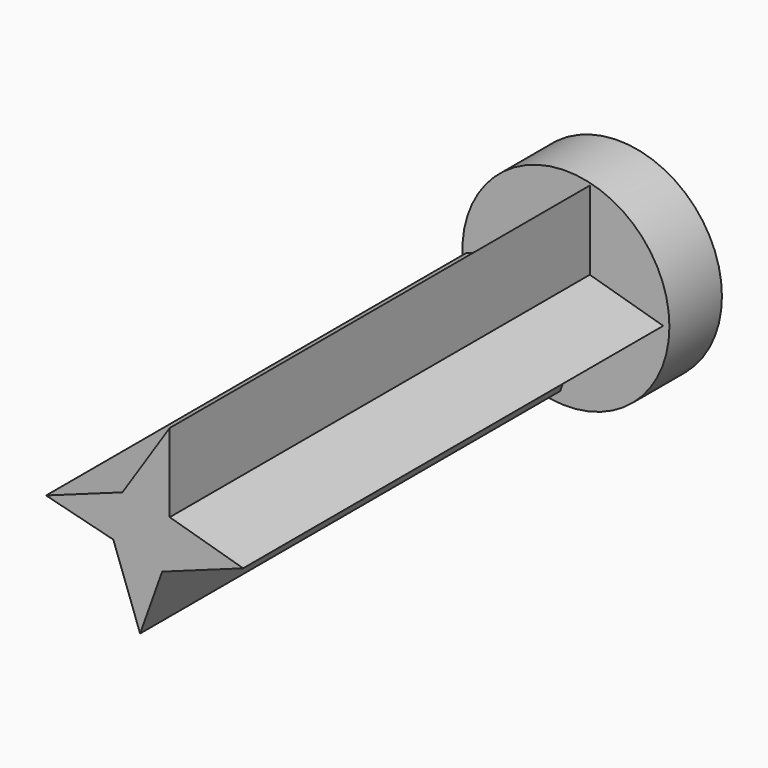
from build123d import *

# Parameters (mm, degrees)
F1_DEPTH = 180
F2_R     = 31.542376
F3_DEPTH = 20


with BuildPart() as f1:
    # F0 (on Front) → F1 (new body)
    with BuildSketch(Plane.XZ):
        Polygon((7.28047, 6.002584), (7.28047, 29.945172), (-7.141014, 7.986175), (-30.399669, -0.422769), (-9.899175, -5.597863), (-1.747458, -28.145044), (4.973325, -9.345488), (29.653051, -0.422769), align=None)
    extrude(amount=F1_DEPTH)

    # F2 (on face) → F3 (join)
    with BuildSketch(Plane.XZ):
        Circle(F2_R)
    extrude(amount=F3_DEPTH)


solid = f1.part
